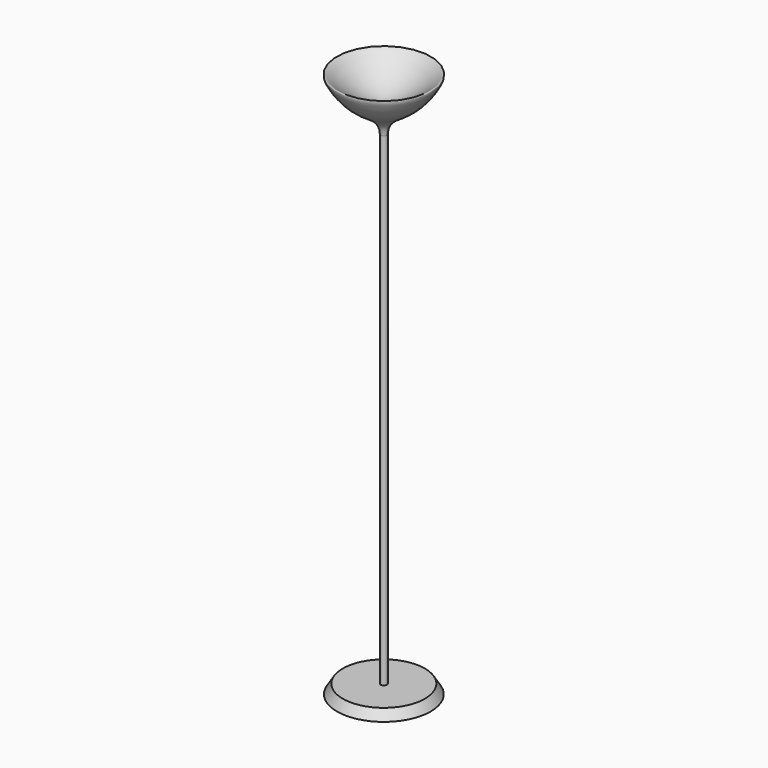
from build123d import *


with BuildPart() as f1:
    # F0 (on Front) → F1 (revolve)
    with BuildSketch(Plane.XZ):
        with BuildLine():
            Line((0, 16.7311839651), (0, 0))
            Line((0, 0), (1.5, 0))
            Line((1.5, 0), (1.3141389936, 0.3))
            Line((1.3141389936, 0.3), (0.1, 0.3))
            Line((0.1, 0.3), (0.1, 15.8))
            add(Edge.make_bspline(
                [(0.1, 15.8), (0.1, 16.2608493485), (0.9966822626, 16.4690719149), (1.9338517079, 18.1131637813), (0.6858264257, 16.7301090026), (0, 16.7311839651)],
                knots=[0, 0, 0, 0, 0.331062605, 0.617594641, 1, 1, 1, 1], degree=3))
        make_face()
    revolve(axis=Axis((0, 0, 8.75), (0, 0, 1)))


solid = f1.part
